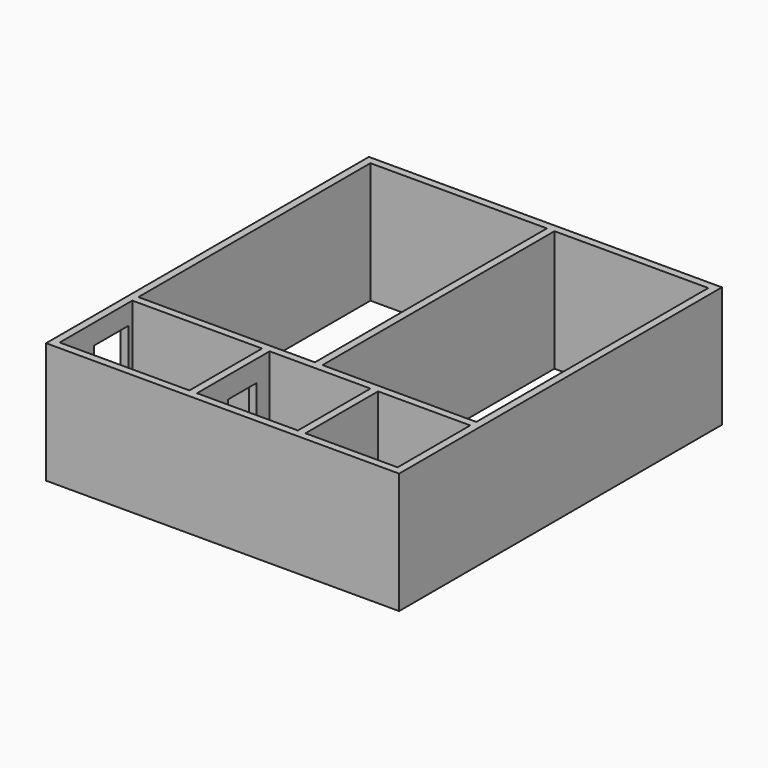
from build123d import *

# Parameters (mm, degrees)
F0_W     = 7000
F0_H     = 8000
F0_W_2   = 2572.100198
F0_H_2   = 1800
F0_W_3   = 2000
F0_W_4   = 1827.899802
F0_W_5   = 3500
F0_H_3   = 5750
F0_W_6   = 3050
F1_DEPTH = 2400
F2_W     = 850
F2_H     = 2000
F3_DEPTH = 150
F4_W     = 700
F4_H     = 1978.064732
F5_DEPTH = 150


with BuildPart() as f1:
    # F0 (on Top) → F1 (new body)
    with BuildSketch(Plane.XY):
        Rectangle(F0_W, F0_H)
        with Locations((-2063.949901, -2950)):
            Rectangle(F0_W_2, F0_H_2, mode=Mode.SUBTRACT)
        with Locations((372.100198, -2950)):
            Rectangle(F0_W_3, F0_H_2, mode=Mode.SUBTRACT)
        with Locations((2436.050099, -2950)):
            Rectangle(F0_W_4, F0_H_2, mode=Mode.SUBTRACT)
        with Locations((-1600, 975)):
            Rectangle(F0_W_5, F0_H_3, mode=Mode.SUBTRACT)
        with Locations((1825, 975)):
            Rectangle(F0_W_6, F0_H_3, mode=Mode.SUBTRACT)
    extrude(amount=F1_DEPTH)

    # F2 (on face) → F3 (cut, through all)
    with BuildSketch(Plane(origin=(-3500, 0, 0), x_dir=(0, -1, 0), z_dir=(-1, 0, 0))):
        with Locations((2575, 1000)):
            Rectangle(F2_W, F2_H)
    extrude(amount=-F3_DEPTH, mode=Mode.SUBTRACT)

    # F4 (on face) → F5 (cut, through all)
    with BuildSketch(Plane.YZ.offset(-627.899802)):
        with Locations((-2726.209259, 989.032366)):
            Rectangle(F4_W, F4_H)
    extrude(amount=-F5_DEPTH, mode=Mode.SUBTRACT)


solid = f1.part
